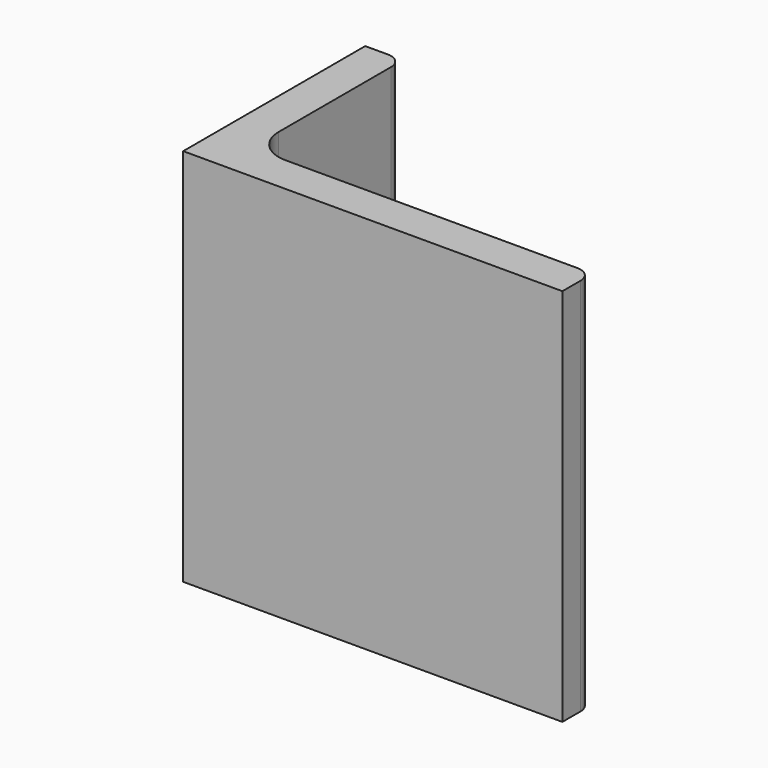
from build123d import *

# Parameters (mm, degrees)
EXTRUDE_DEPTH = 50


with BuildPart() as part:
    # Sketch → Extrude (new body)
    with BuildSketch(Plane.XY):
        with BuildLine():
            Line((0, 0), (50, 0))
            Line((50, 0), (50, 3))
            ThreePointArc((50, 3), (49.414214, 4.414214), (48, 5))
            Line((48, 5), (9.5, 5))
            ThreePointArc((5, 9.5), (6.318019, 6.318019), (9.5, 5))
            Line((5, 28), (5, 9.5))
            ThreePointArc((5, 28), (4.414214, 29.414214), (3, 30))
            Line((0, 30), (3, 30))
            Line((0, 0), (0, 30))
        make_face()
    extrude(amount=EXTRUDE_DEPTH)


solid = part.part
